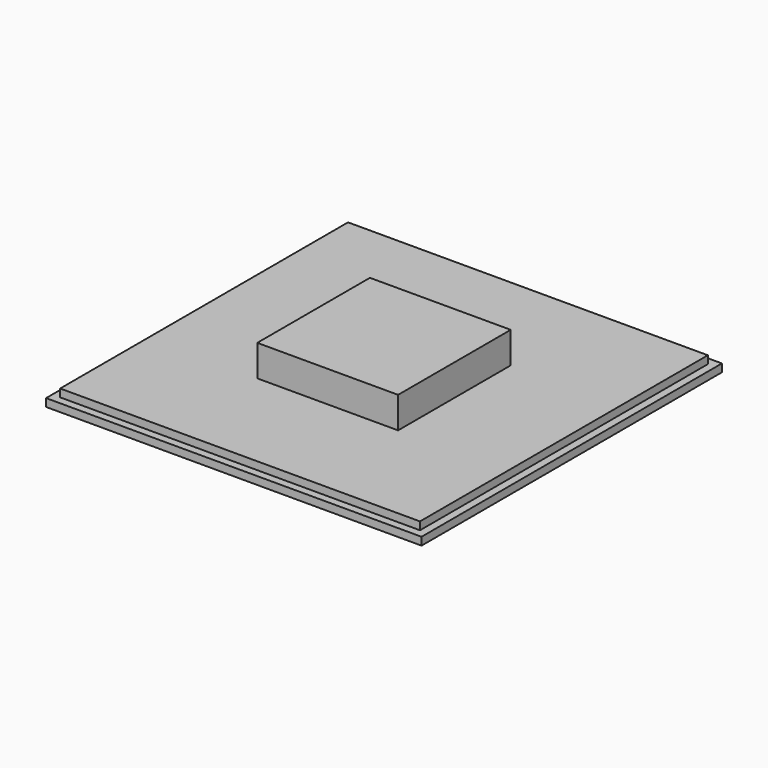
from build123d import *

# Parameters (mm, degrees)
F0_W     = 304.8
F0_H     = 304.8
F0_W_2   = 292.1
F0_H_2   = 292.1
F1_DEPTH = 6.35
F2_DEPTH = 12.7
F3_W     = 114.3
F3_H     = 114.3
F4_DEPTH = 25.4


with BuildPart() as f1:
    # F0 (on Top) → F1 (new body)
    with BuildSketch(Plane.XY):
        Rectangle(F0_W, F0_H)
        Rectangle(F0_W_2, F0_H_2, mode=Mode.SUBTRACT)
    extrude(amount=F1_DEPTH)

    # F0 (on Top) → F2 (join)
    with BuildSketch(Plane.XY):
        Rectangle(F0_W_2, F0_H_2)
    extrude(amount=F2_DEPTH)

    # F3 (on face) → F4 (join)
    with BuildSketch(Plane.XY.offset(12.7)):
        Rectangle(F3_W, F3_H)
    extrude(amount=F4_DEPTH)


solid = f1.part
